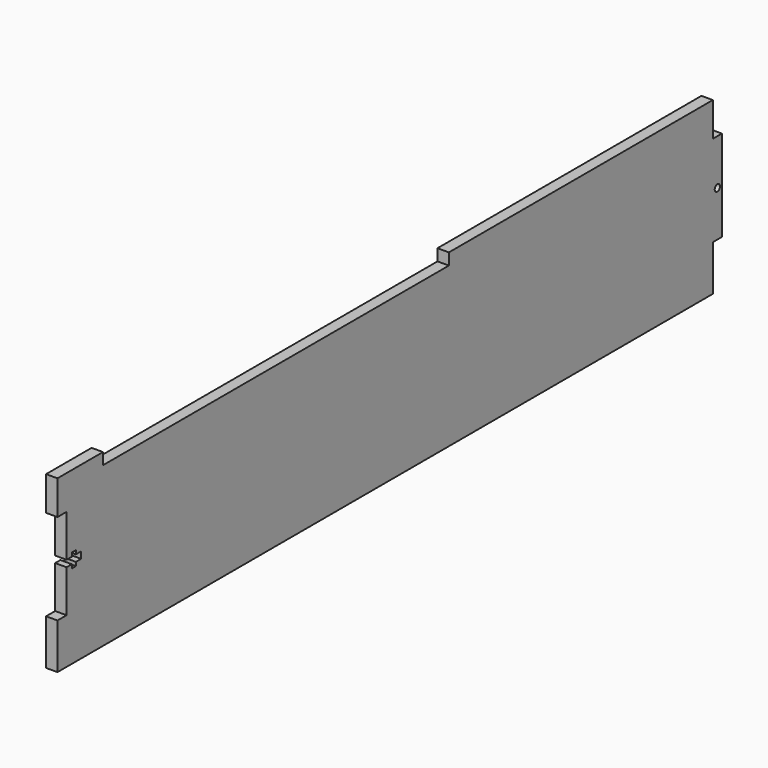
from build123d import *

# Parameters (mm, degrees)
F0_W     = 463.55
F0_H     = 95.25
F1_DEPTH = 6.35
F2_W     = 3.6576
F2_H     = 3.683
F2_W_2   = 2.8448
F2_H_2   = 2.0955
F2_W_3   = 6.35
F2_H_3   = 19.05
F2_H_4   = 25.4
F2_R     = 1.8415
F2_W_4   = 241.3
F2_H_5   = 6.477
F3_DEPTH = 25.4


with BuildPart() as f1:
    # F0 (on Right) → F1 (new body)
    with BuildSketch(Plane.YZ):
        Rectangle(F0_W, F0_H)
    extrude(amount=F1_DEPTH)

    # F2 (on Right) → F3 (cut)
    with BuildSketch(Plane.YZ):
        Polygon((-225.425, 28.575), (-231.775, 28.575), (-231.775, -22.225), (-225.425, -22.225), (-225.425, 1.3335), (-225.425, 5.0165), align=None)
        with Locations((-223.5962, 3.175)):
            Rectangle(F2_W, F2_H)
        with Locations((-220.345, 6.06425)):
            Rectangle(F2_W_2, F2_H_2)
        with Locations((-220.345, 3.175)):
            Rectangle(F2_W_2, F2_H)
        with Locations((-220.345, 0.28575)):
            Rectangle(F2_W_2, F2_H_2)
        with Locations((-217.0938, 3.175)):
            Rectangle(F2_W, F2_H)
        with Locations((228.6, 38.1)):
            Rectangle(F2_W_3, F2_H_3)
        with Locations((228.6, -34.925)):
            Rectangle(F2_W_3, F2_H_4)
        with Locations((228.6, 3.175)):
            Circle(F2_R)
        with Locations((-79.375, 44.3865)):
            Rectangle(F2_W_4, F2_H_5)
    extrude(amount=F3_DEPTH, mode=Mode.SUBTRACT)


with BuildPart() as f4_1:
    # F4: copy of F1
    add(f1.part)


solid = Compound([f1.part, f4_1.part])
